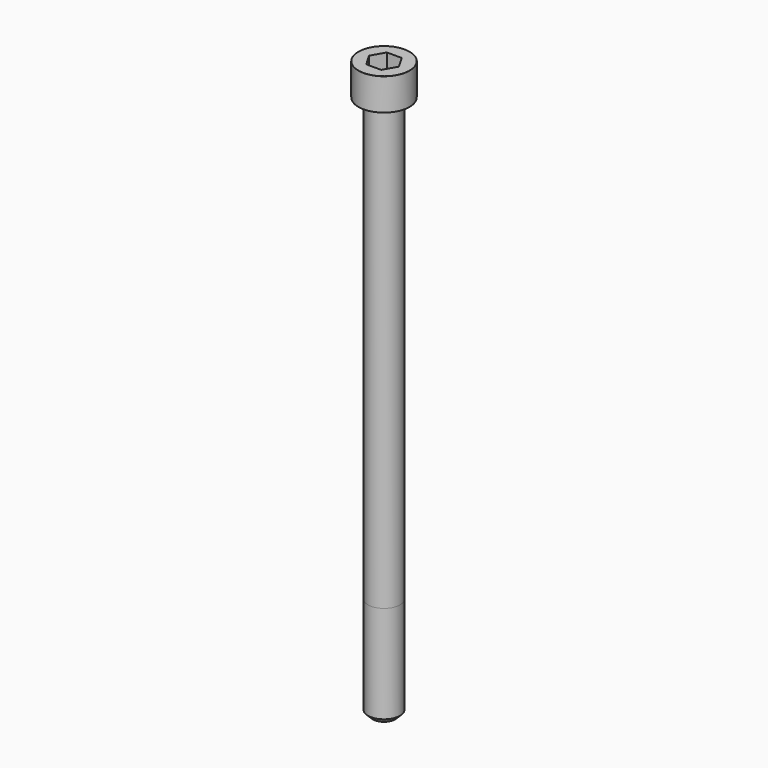
from build123d import *

# Parameters (mm, degrees)
POCKET_DEPTH = 8.07


with BuildPart() as part:
    # Sketch → Revolve (revolve)
    with BuildSketch(Plane.YZ):
        with BuildLine():
            Line((4.999, 0), (8, 0))
            Line((8, 0), (8, 9.97229))
            ThreePointArc((8, 9.97229), (7.991884, 9.991884), (7.97229, 10))
            Line((7.97229, 10), (0, 10))
            Line((0, -170), (0, 10))
            Line((3.5, -170), (0, -170))
            Line((5, -168.5), (3.5, -170))
            Line((5, -138), (5, -168.5))
            Line((4.999, 0), (5, -138))
        make_face()
    revolve(axis=Axis((0, 0, 0), (0, 0, 1)))

    # Sketch001 → Pocket (cut)
    with BuildSketch(Plane.XY.offset(10)):
        Polygon((4.659217, 0), (2.329608, 4.035), (-2.329608, 4.035), (-4.659217, 0), (-2.329608, -4.035), (2.329608, -4.035), align=None)
    extrude(amount=-POCKET_DEPTH, mode=Mode.SUBTRACT)


solid = part.part
